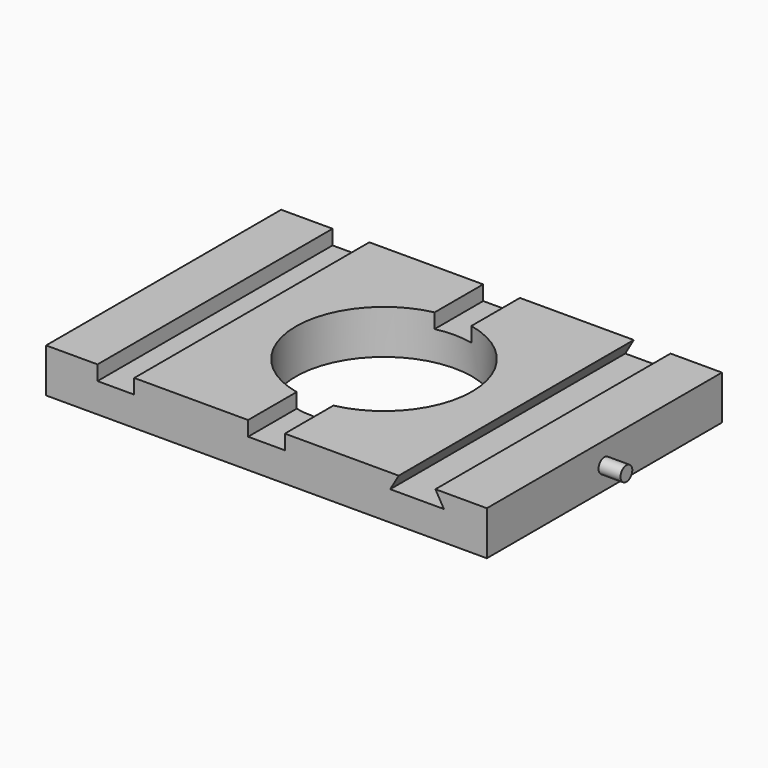
from build123d import *

# Parameters (mm, degrees)
F0_W     = 300
F0_H     = 200
F0_R     = 60
F1_DEPTH = 30
F2_W     = 25
F2_H     = 200
F3_DEPTH = 10
F5_DEPTH = 200
F6_R     = 5
F7_DEPTH = 15


with BuildPart() as f1:
    # F0 (on Top) → F1 (new body)
    with BuildSketch(Plane.XY):
        Rectangle(F0_W, F0_H)
        Circle(F0_R, mode=Mode.SUBTRACT)
    extrude(amount=F1_DEPTH)

    # F2 (on face) → F3 (cut)
    with BuildSketch(Plane.XY.offset(30)):
        with Locations((-102.5, 0)):
            Rectangle(F2_W, F2_H)
        with Locations((-102.5, 0)):
            Rectangle(F2_W, F2_H)
        Rectangle(F2_W, F2_H)
        with BuildLine():
            Line((-12.5, -58.683473), (-12.5, -100))
            Line((-12.5, -100), (12.5, -100))
            Line((12.5, -100), (12.5, -58.683473))
            ThreePointArc((12.5, -58.683473), (0, -60), (-12.5, -58.683473))
        make_face()
        with BuildLine():
            Line((12.5, 100), (-12.5, 100))
            Line((-12.5, 100), (-12.5, 58.683473))
            ThreePointArc((-12.5, 58.683473), (0, 60), (12.5, 58.683473))
            Line((12.5, 58.683473), (12.5, 100))
        make_face()
    extrude(amount=-F3_DEPTH, mode=Mode.SUBTRACT)

    # F4 (on face) → F5 (cut, through all)
    with BuildSketch(Plane.XZ.offset(100)):
        Polygon((115, 30), (90, 30), (84.226497, 20), (120.773503, 20), align=None)
    extrude(amount=-F5_DEPTH, mode=Mode.SUBTRACT)

    # F6 (on face) → F7 (join)
    with BuildSketch(Plane.YZ.offset(150)):
        with Locations((0, 15)):
            Circle(F6_R)
    extrude(amount=F7_DEPTH)


solid = f1.part
